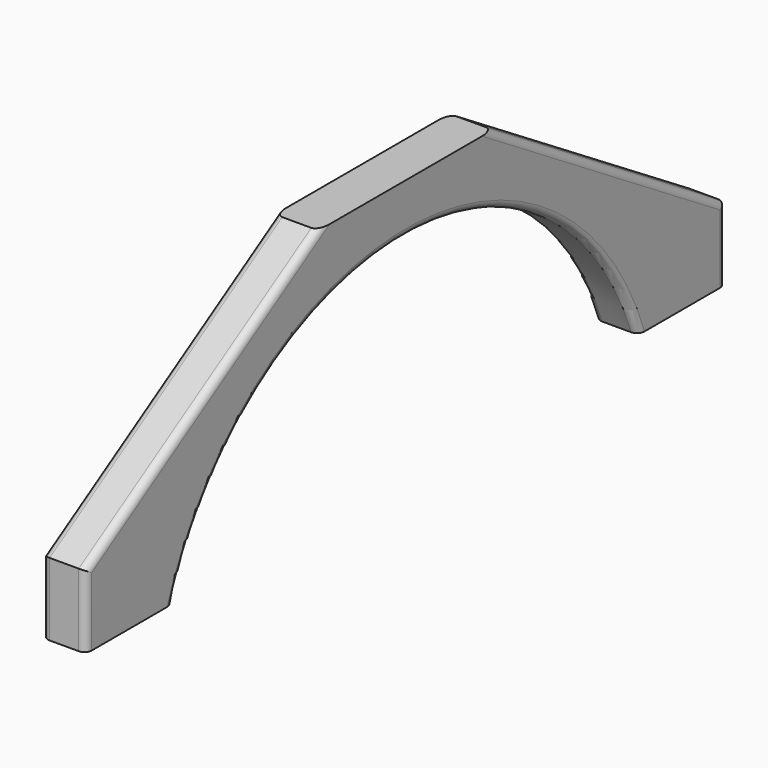
from build123d import *

# Parameters (mm, degrees)
PAD019_DEPTH = 12
FILLET005_R  = 2
FILLET006_R  = 2


with BuildPart() as part:
    # Sketch058 → Pad019 (new body)
    with BuildSketch(Plane.YZ):
        with BuildLine():
            Line((-110, 0), (-110, 20))
            Line((-110, 20), (-30, 70))
            Line((-30, 70), (30, 70))
            Line((30, 70), (110, 20))
            Line((110, 20), (110, 0))
            Line((110, 0), (80, 0))
            ThreePointArc((80, 0), (0, 56.277187), (-80, 0))
            Line((-110, 0), (-80, 0))
        make_face()
    extrude(amount=PAD019_DEPTH)

    # Fillet005
    fillet005_edges = [part.edges().sort_by_distance(p)[0] for p in [
        (0, 0, 56.277187),
        (12, 0, 56.277187),
    ]]
    fillet(fillet005_edges, radius=FILLET005_R)

    # Fillet006
    fillet006_edges = [part.edges().sort_by_distance(p)[0] for p in [
        (12, 70, 45),
        (0, 70, 45),
        (0, -70, 45),
        (12, -70, 45),
        (0, -110, 10),
        (12, -110, 10),
        (0, 110, 10),
        (12, 110, 10),
    ]]
    fillet(fillet006_edges, radius=FILLET006_R)


solid = part.part
